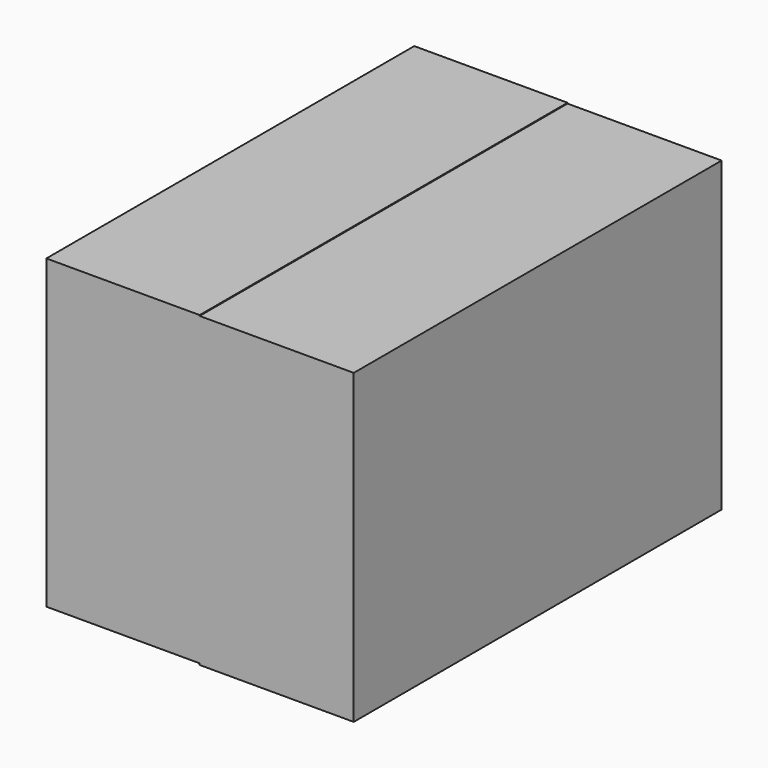
from build123d import *

# Parameters (mm, degrees)
F0_W     = 50.8
F0_H     = 101.6
F1_DEPTH = 152.4
F2_T     = -2.54
F3_W     = 51.070213
F3_H     = 101.830907
F4_DEPTH = 152.4


with BuildPart() as f1:
    # F0 (on Front) → F1 (new body)
    with BuildSketch(Plane.XZ):
        with Locations((-25.4, 5.327806)):
            Rectangle(F0_W, F0_H)
    extrude(amount=F1_DEPTH)

    # F2
    f2_openings = [f1.faces().sort_by_distance(p)[0] for p in [
        (-50.8, -76.2, 5.327806),
    ]]
    offset(amount=F2_T, openings=f2_openings)

    # F3 (on Front) → F4 (join)
    with BuildSketch(Plane.XZ):
        with Locations((25.535106, 4.952264)):
            Rectangle(F3_W, F3_H)
    extrude(amount=F4_DEPTH)


solid = f1.part
